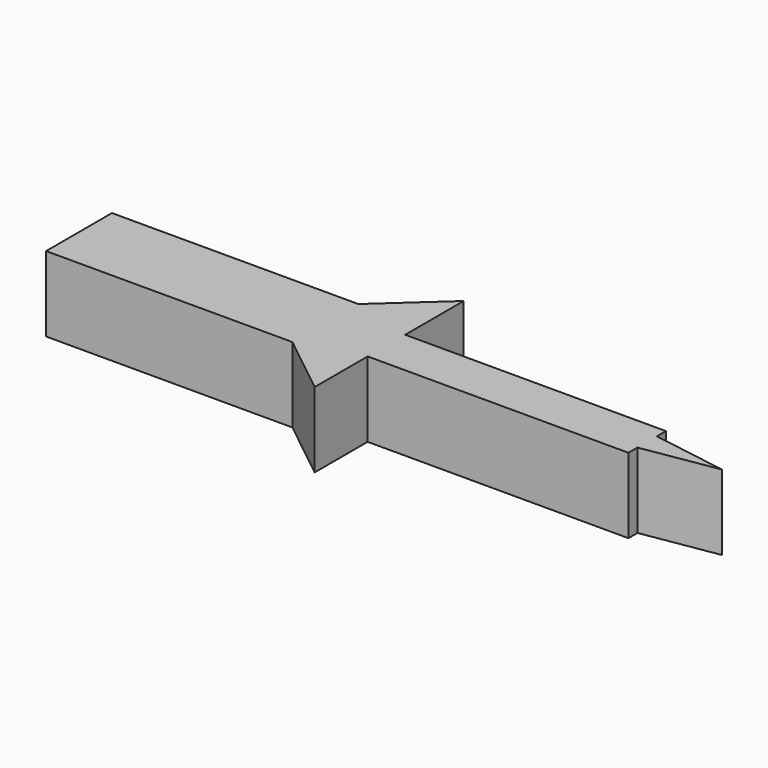
from build123d import *

# Parameters (mm, degrees)
F1_W     = 16.376786
F1_H     = 5.474269
F2_DEPTH = 5


with BuildPart() as f2:
    # F1 (on face) → F2 (new body)
    with BuildSketch(Plane.XY):
        with Locations((52.624818, -94.148814)):
            Rectangle(F1_W, F1_H)
        Polygon((60.813211, -91.41168), (60.813211, -96.885949), (64.87228, -100.107815), (64.87228, -95.707886), (64.87228, -94.148815), (64.87228, -92.589743), (64.87228, -87.727222), align=None)
        Polygon((64.87228, -94.148815), (64.87228, -95.707886), (82.20914, -95.707886), (82.20914, -94.956756), (82.20914, -93.340874), (82.20914, -92.589743), (64.87228, -92.589743), align=None)
        Polygon((82.20914, -93.340874), (82.20914, -94.956756), (87.176986, -94.148815), align=None)
        Polygon((60.813211, -91.41168), (60.813211, -96.885949), (64.87228, -100.107815), (64.87228, -95.707886), (64.87228, -94.148815), (64.87228, -92.589743), (64.87228, -87.727222), align=None)
        Polygon((64.87228, -94.148815), (64.87228, -95.707886), (82.20914, -95.707886), (82.20914, -94.956756), (82.20914, -93.340874), (82.20914, -92.589743), (64.87228, -92.589743), align=None)
        with Locations((52.624818, -94.148814)):
            Rectangle(F1_W, F1_H)
        Polygon((82.20914, -93.340874), (82.20914, -94.956756), (87.176986, -94.148815), align=None)
    extrude(amount=F2_DEPTH)


solid = f2.part
